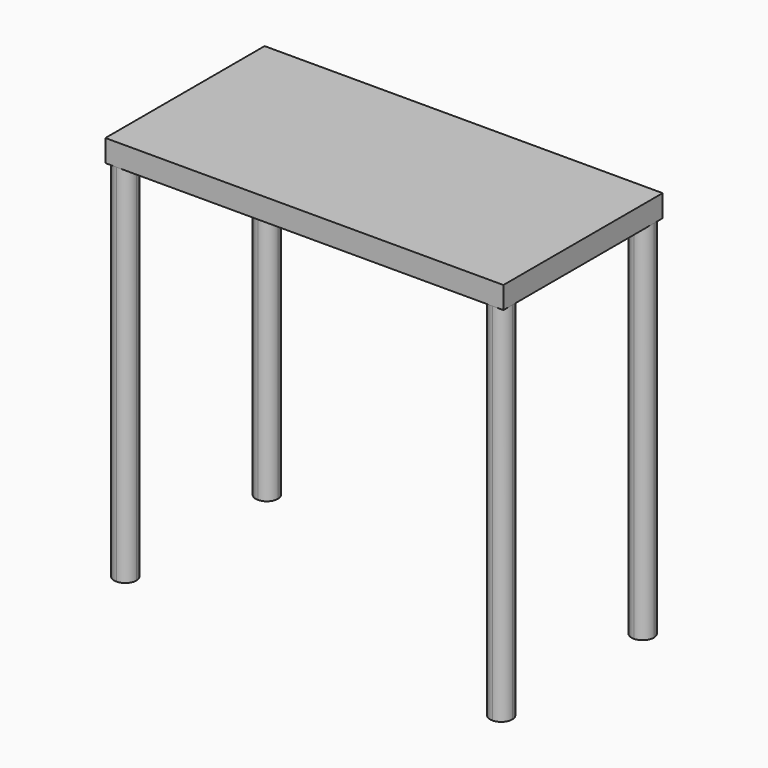
from build123d import *

# Parameters (mm, degrees)
F0_W     = 914.4
F0_H     = 457.2
F1_DEPTH = 50.8
F3_DEPTH = 838.2


with BuildPart() as f1:
    # F0 (on Top) → F1 (new body)
    with BuildSketch(Plane.XY):
        with Locations((457.2, -228.6)):
            Rectangle(F0_W, F0_H)
    extrude(amount=F1_DEPTH)

    # F2 (on face) → F3 (join)
    with BuildSketch(Plane(origin=(0, 0, 0), x_dir=(1, 0, 0), z_dir=(0, 0, -1))):
        with BuildLine():
            ThreePointArc((914.4, 431.8), (906.960512, 449.760512), (889, 457.2))
            ThreePointArc((889, 457.2), (871.039488, 449.760512), (863.6, 431.8))
            ThreePointArc((863.6, 431.8), (871.039488, 413.839488), (889, 406.4))
            ThreePointArc((889, 406.4), (906.960512, 413.839488), (914.4, 431.8))
        make_face()
        with BuildLine():
            ThreePointArc((914.4, 25.4), (906.960512, 43.360512), (889, 50.8))
            ThreePointArc((889, 50.8), (871.039488, 43.360512), (863.6, 25.4))
            ThreePointArc((863.6, 25.4), (871.039488, 7.439488), (889, 0))
            ThreePointArc((889, 0), (906.960512, 7.439488), (914.4, 25.4))
        make_face()
        with BuildLine():
            ThreePointArc((50.8, 25.4), (43.360512, 43.360512), (25.4, 50.8))
            ThreePointArc((25.4, 50.8), (7.439488, 43.360512), (0, 25.4))
            ThreePointArc((0, 25.4), (7.439488, 7.439488), (25.4, 0))
            ThreePointArc((25.4, 0), (43.360512, 7.439488), (50.8, 25.4))
        make_face()
        with BuildLine():
            ThreePointArc((50.8, 431.8), (43.360512, 449.760512), (25.4, 457.2))
            ThreePointArc((25.4, 457.2), (7.439488, 449.760512), (0, 431.8))
            ThreePointArc((0, 431.8), (7.439488, 413.839488), (25.4, 406.4))
            ThreePointArc((25.4, 406.4), (43.360512, 413.839488), (50.8, 431.8))
        make_face()
    extrude(amount=F3_DEPTH)


solid = f1.part
